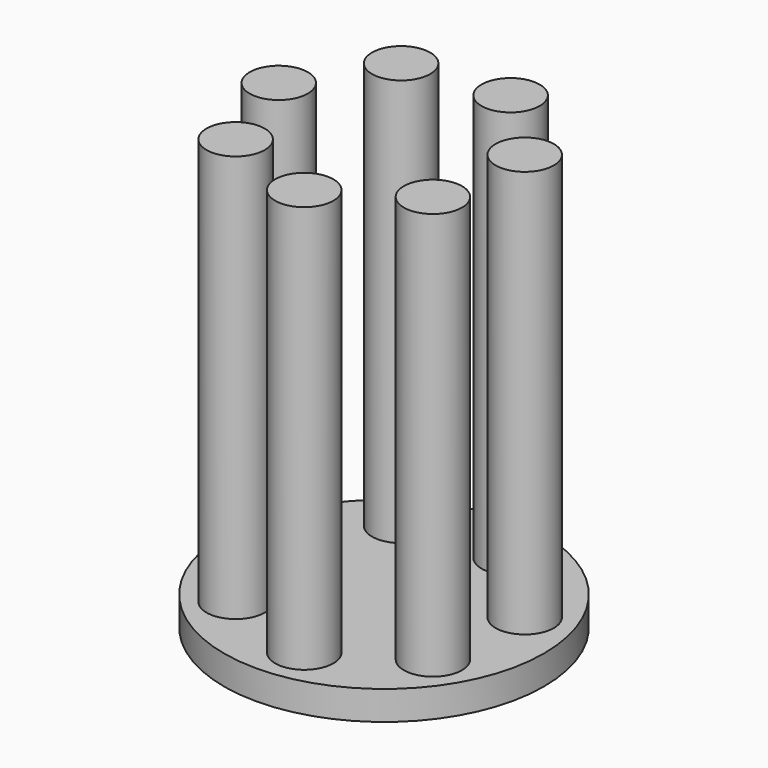
from build123d import *

# Parameters (mm, degrees)
F0_R     = 22
F0_R_2   = 4
F1_DEPTH = 4
F2_DEPTH = 60


with BuildPart() as f1:
    # F0 (on Top) → F1 (new body)
    with BuildSketch(Plane.XY):
        Circle(F0_R)
        with Locations((-11.344709, -11.317849)):
            Circle(F0_R_2, mode=Mode.SUBTRACT)
        with Locations((1.775341, -15.926214)):
            Circle(F0_R_2, mode=Mode.SUBTRACT)
        with Locations((13.558523, -8.541815)):
            Circle(F0_R_2, mode=Mode.SUBTRACT)
        with Locations((-15.921961, 1.813087)):
            Circle(F0_R_2, mode=Mode.SUBTRACT)
        with Locations((-8.509652, 13.578732)):
            Circle(F0_R_2, mode=Mode.SUBTRACT)
        with Locations((15.13186, 5.274745)):
            Circle(F0_R_2, mode=Mode.SUBTRACT)
        with Locations((5.310599, 15.119315)):
            Circle(F0_R_2, mode=Mode.SUBTRACT)
    extrude(amount=F1_DEPTH)

    # F0 (on Top) → F2 (join)
    with BuildSketch(Plane.XY):
        with Locations((13.558523, -8.541815)):
            Circle(F0_R_2)
        with Locations((-8.509652, 13.578732)):
            Circle(F0_R_2)
        with Locations((15.13186, 5.274745)):
            Circle(F0_R_2)
        with Locations((-11.344709, -11.317849)):
            Circle(F0_R_2)
        with Locations((1.775341, -15.926214)):
            Circle(F0_R_2)
        with Locations((-15.921961, 1.813087)):
            Circle(F0_R_2)
        with Locations((5.310599, 15.119315)):
            Circle(F0_R_2)
    extrude(amount=F2_DEPTH)


solid = f1.part
